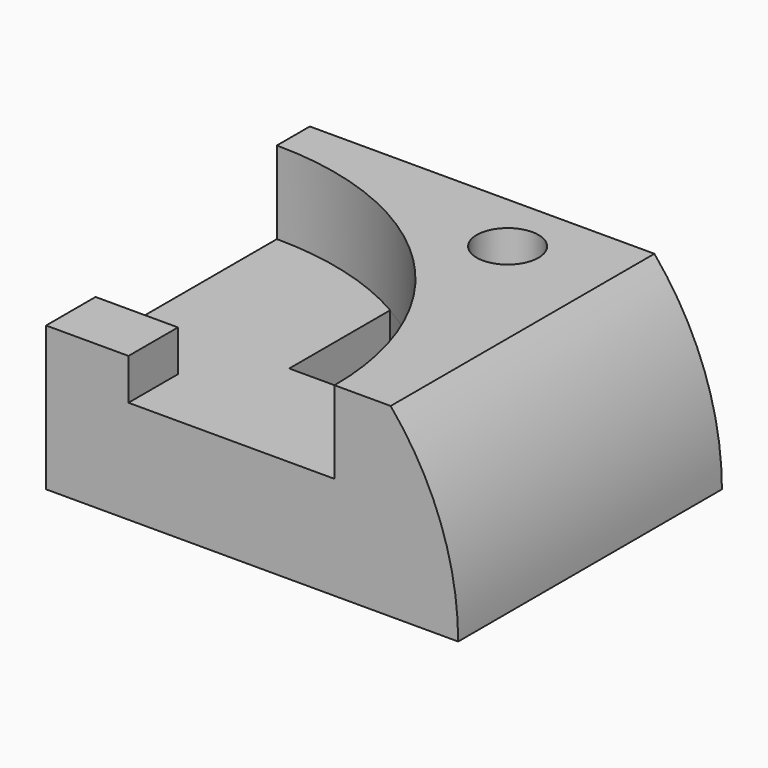
from build123d import *

# Parameters (mm, degrees)
F0_W      = 100
F0_H      = 45
F1_DEPTH  = 80
F2_R      = 7.5
F3_DEPTH  = 30
F4_R      = 70
F5_DEPTH  = 20
F6_W      = 20
F6_H      = 15
F7_DEPTH  = 10
F10_DEPTH = 25.001
F12_DEPTH = 80.001


with BuildPart() as f1:
    # F0 (on Front) → F1 (new body)
    with BuildSketch(Plane.XZ):
        with Locations((50, 22.5)):
            Rectangle(F0_W, F0_H)
    extrude(amount=F1_DEPTH)

    # F2 (on face) → F3 (cut)
    with BuildSketch(Plane.XY.offset(45)):
        with Locations((60, -15)):
            Circle(F2_R)
    extrude(amount=-F3_DEPTH, mode=Mode.SUBTRACT)

    # F4 (on face) → F5 (cut)
    with BuildSketch(Plane.XY.offset(45)):
        with Locations((0, -80)):
            Circle(F4_R)
    extrude(amount=-F5_DEPTH, mode=Mode.SUBTRACT)

    # F6 (on face) → F7 (join)
    with BuildSketch(Plane.XY.offset(25)):
        with Locations((10, -72.5)):
            Rectangle(F6_W, F6_H)
    extrude(amount=F7_DEPTH)

    # F9 (on face) → F10 (cut, through all)
    with BuildSketch(Plane.XY.offset(25)):
        with BuildLine():
            ThreePointArc((63.2455532034, -50), (51.4535762322, -32.5391793906), (35, -19.3782217351))
            Line((35, -19.3782217351), (35, -50))
            Line((35, -50), (63.2455532034, -50))
        make_face()
    extrude(amount=-F10_DEPTH, mode=Mode.SUBTRACT)

    # F11 (on face) → F12 (cut, through all)
    with BuildSketch(Plane.XZ.offset(80)):
        with BuildLine():
            ThreePointArc((83.6190264738, 45), (95.7773967757, 23.944395449), (100, 0))
            Line((100, 0), (100, 45))
            Line((100, 45), (83.6190264738, 45))
        make_face()
    extrude(amount=-F12_DEPTH, mode=Mode.SUBTRACT)


solid = f1.part
